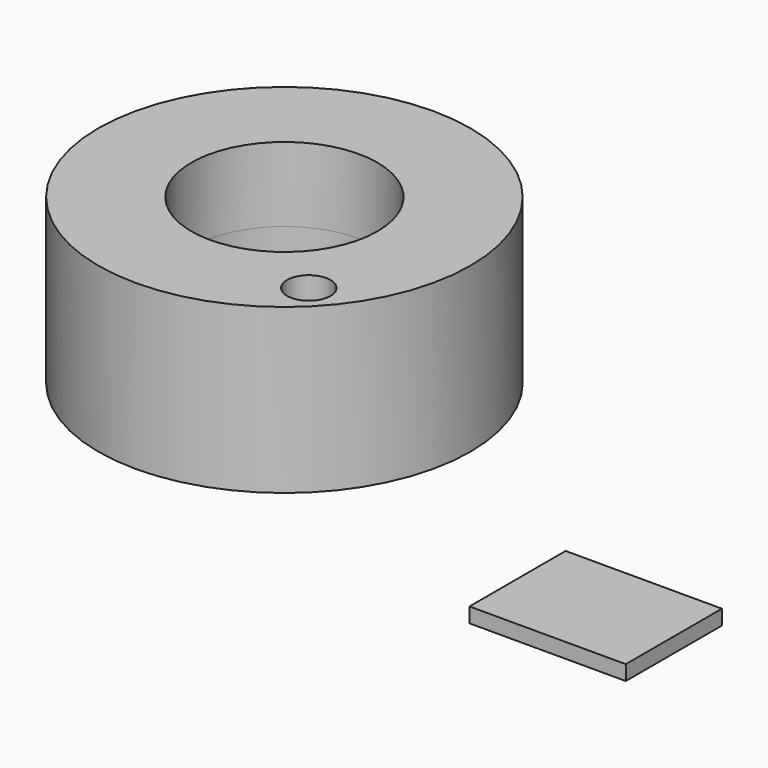
from build123d import *

# Parameters (mm, degrees)
F0_R        = 63.5
F0_R_2      = 31.75
F1_DEPTH    = 30.48
F2_R        = 7.390562
F3_DEPTH    = 127
F1_FACE_R   = 63.5
F1_FACE_R_2 = 7.390562
F1_FACE_R_3 = 31.75
F4_DEPTH    = 25.4
F5_W        = 53.329483
F5_H        = 41.01209
F6_DEPTH    = 5.08


with BuildPart() as f1:
    # F0 (on Top) → F1 (new body)
    with BuildSketch(Plane.XY):
        Circle(F0_R)
        Circle(F0_R_2, mode=Mode.SUBTRACT)
    extrude(amount=F1_DEPTH)

    # F2 (on face) → F3 (cut)
    with BuildSketch(Plane.XY.offset(30.48)):
        with Locations((37.87522, -36.939677)):
            Circle(F2_R)
    extrude(amount=-F3_DEPTH, mode=Mode.SUBTRACT)

    # F1_face (on face) → F4 (join)
    with BuildSketch(Plane.XY.offset(30.48)):
        Circle(F1_FACE_R)
        with Locations((37.87522, -36.939677)):
            Circle(F1_FACE_R_2, mode=Mode.SUBTRACT)
        Circle(F1_FACE_R_3, mode=Mode.SUBTRACT)
    extrude(amount=F4_DEPTH)


with BuildPart() as f6:
    # F5 (on Top) → F6 (new body)
    with BuildSketch(Plane.XY):
        with Locations((151.822605, -56.990417)):
            Rectangle(F5_W, F5_H)
    extrude(amount=F6_DEPTH)


solid = Compound([f1.part, f6.part])
